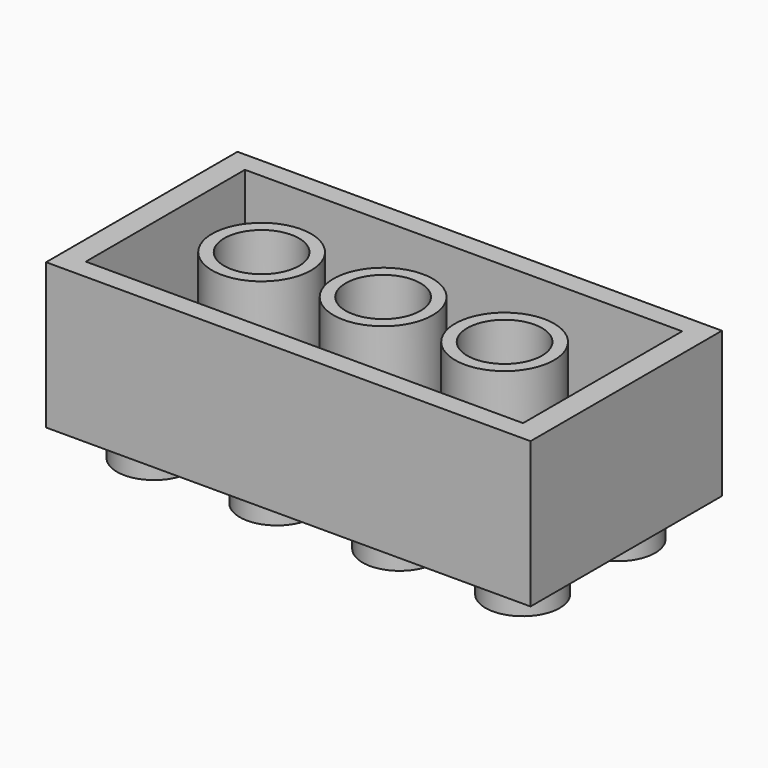
from build123d import *

# Parameters (mm, degrees)
F0_W     = 31.956
F0_H     = 15.78
F0_W_2   = 28.842
F0_H_2   = 13.12
F1_DEPTH = 9.6
F2_DEPTH = 25
F3_DEPTH = 1.557
F4_R     = 3.267
F4_R_2   = 2.467
F5_DEPTH = 8.043
F6_R     = 2.45
F7_DEPTH = 2.1


with BuildPart() as f1:
    # F0 (on Top) → F1 (new body)
    with BuildSketch(Plane.XY):
        with Locations((-20.927882, -12.640023)):
            Rectangle(F0_W, F0_H)
        with Locations((-20.927882, -12.640023)):
            Rectangle(F0_W_2, F0_H_2, mode=Mode.SUBTRACT)
        with Locations((-20.927882, -12.640023)):
            Rectangle(F0_W_2, F0_H_2)
    extrude(amount=F1_DEPTH)

    # F0 (on Top) → F2 (cut)
    with BuildSketch(Plane.XY):
        with Locations((-20.927882, -12.640023)):
            Rectangle(F0_W_2, F0_H_2)
    extrude(amount=F2_DEPTH, mode=Mode.SUBTRACT)

    # F0 (on Top) → F3 (join)
    with BuildSketch(Plane.XY):
        with Locations((-20.927882, -12.640023)):
            Rectangle(F0_W_2, F0_H_2)
    extrude(amount=F3_DEPTH)

    # F4 (on face) → F5 (join)
    with BuildSketch(Plane.XY.offset(1.557)):
        with Locations((-28.941882, -12.714023)):
            Circle(F4_R)
        with Locations((-28.941882, -12.714023)):
            Circle(F4_R_2, mode=Mode.SUBTRACT)
        with Locations((-20.927882, -12.714023)):
            Circle(F4_R)
        with Locations((-20.927882, -12.714023)):
            Circle(F4_R_2, mode=Mode.SUBTRACT)
        with Locations((-12.913882, -12.714023)):
            Circle(F4_R)
        with Locations((-12.913882, -12.714023)):
            Circle(F4_R_2, mode=Mode.SUBTRACT)
    extrude(amount=F5_DEPTH)

    # F6 (on face) → F7 (join)
    with BuildSketch(Plane(origin=(0, 0, 0), x_dir=(1, 0, 0), z_dir=(0, 0, -1))):
        with Locations((-32.948882, 16.573023)):
            Circle(F6_R)
        with Locations((-24.844882, 16.573023)):
            Circle(F6_R)
        with Locations((-16.740882, 16.573023)):
            Circle(F6_R)
        with Locations((-8.636882, 16.573023)):
            Circle(F6_R)
        with Locations((-8.636882, 8.707023)):
            Circle(F6_R)
        with Locations((-16.740882, 8.707023)):
            Circle(F6_R)
        with Locations((-24.844882, 8.707023)):
            Circle(F6_R)
        with Locations((-32.948882, 8.707023)):
            Circle(F6_R)
    extrude(amount=F7_DEPTH)


solid = f1.part
